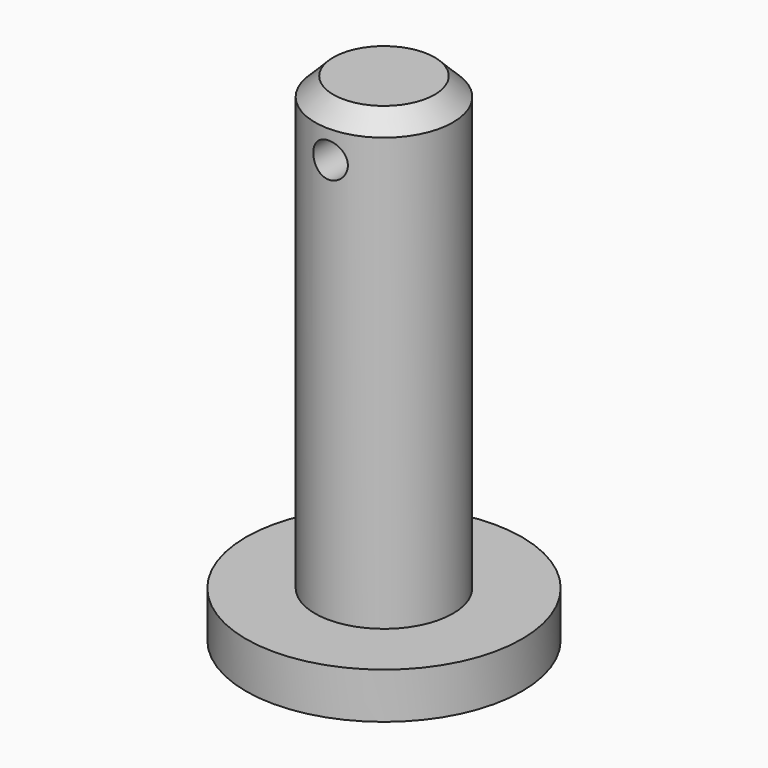
from build123d import *

# Parameters (mm, degrees)
F0_R     = 19.05
F1_DEPTH = 6.35
F2_R     = 9.525
F3_DEPTH = 62.23
F4_SIZE  = 2.54
F5_R     = 2.3876
F6_DEPTH = 12.7


with BuildPart() as f1:
    # F0 (on Top) → F1 (new body)
    with BuildSketch(Plane.XY):
        Circle(F0_R)
    extrude(amount=F1_DEPTH)

    # F2 (on face) → F3 (join)
    with BuildSketch(Plane.XY.offset(6.35)):
        Circle(F2_R)
    extrude(amount=F3_DEPTH)

    # F4
    f4_edges = [f1.edges().sort_by_distance(p)[0] for p in [
        (-9.525, 0, 68.58),
    ]]
    chamfer(f4_edges, length=F4_SIZE)

    # F5 (on Front) → F6 (cut, symmetric)
    with BuildSketch(Plane.XZ):
        with Locations((0, 62.23)):
            Circle(F5_R)
    extrude(amount=F6_DEPTH, both=True, mode=Mode.SUBTRACT)


solid = f1.part
